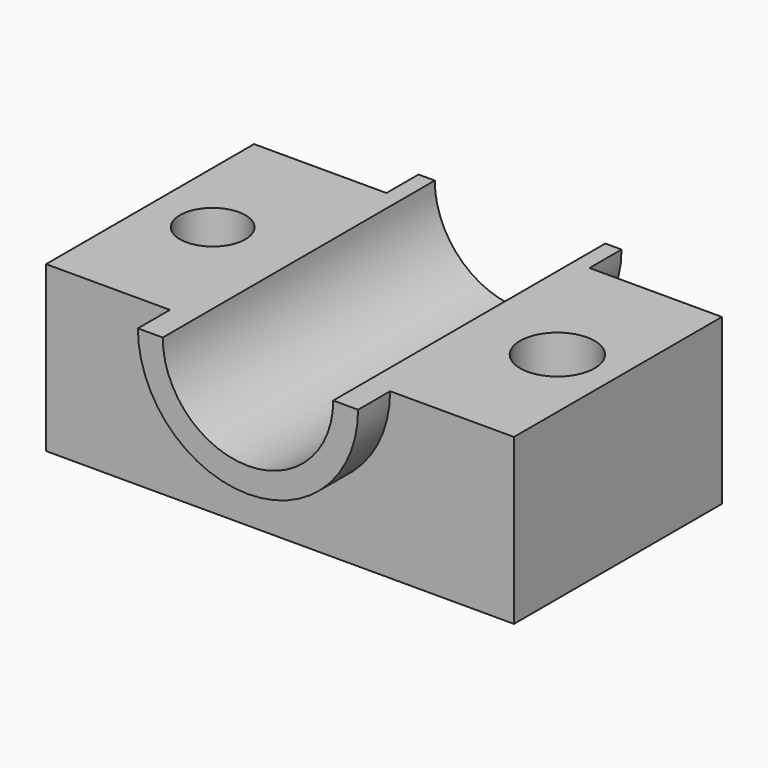
from build123d import *

# Parameters (mm, degrees)
F0_W     = 296.7444360256
F0_H     = 164.8739129305
F0_R     = 20.7617734551
F0_R_2   = 23.6179830604
F1_DEPTH = 104.394
F3_DEPTH = 25.4
F5_DEPTH = 25.4
F6_DEPTH = 237.998


with BuildPart() as f1:
    # F0 (on Top) → F1 (new body)
    with BuildSketch(Plane.XY):
        Rectangle(F0_W, F0_H)
        with Locations((-108.6655110121, 0)):
            Circle(F0_R, mode=Mode.SUBTRACT)
        with Locations((109.9524945021, 0)):
            Circle(F0_R_2, mode=Mode.SUBTRACT)
    extrude(amount=F1_DEPTH)

    # F2 (on face) → F3 (join)
    with BuildSketch(Plane.XZ.offset(82.4369564652)):
        with BuildLine():
            ThreePointArc((-69.8260508727, 104.394), (0, 34.5679491273), (69.8260508727, 104.394))
            Line((69.8260508727, 104.394), (54.0751636947, 104.394))
            ThreePointArc((54.0751636947, 104.394), (0, 50.3188363053), (-54.0751636947, 104.394))
            Line((-54.0751636947, 104.394), (-69.8260508727, 104.394))
        make_face()
    extrude(amount=F3_DEPTH)

    # F4 (on face) → F5 (join)
    with BuildSketch(Plane(origin=(0, 82.4369564652, 0), x_dir=(-1, 0, 0), z_dir=(0, 1, 0))):
        with BuildLine():
            Line((64.3801944151, 104.394), (53.3518843102, 104.394))
            ThreePointArc((53.3518843102, 104.394), (0, 51.0421156898), (-53.3518843102, 104.394))
            Line((-53.3518843102, 104.394), (-64.3801944151, 104.394))
            ThreePointArc((-64.3801944151, 104.394), (0, 40.0138055849), (64.3801944151, 104.394))
        make_face()
    extrude(amount=F5_DEPTH)

    # F6 (cut): a face of the model
    f6_faces = [f1.faces().sort_by_distance(p)[0] for p in [
        (0, -82.4369564652, 81.443787732),
    ]]
    extrude(f6_faces, amount=-F6_DEPTH, mode=Mode.SUBTRACT)


solid = f1.part
